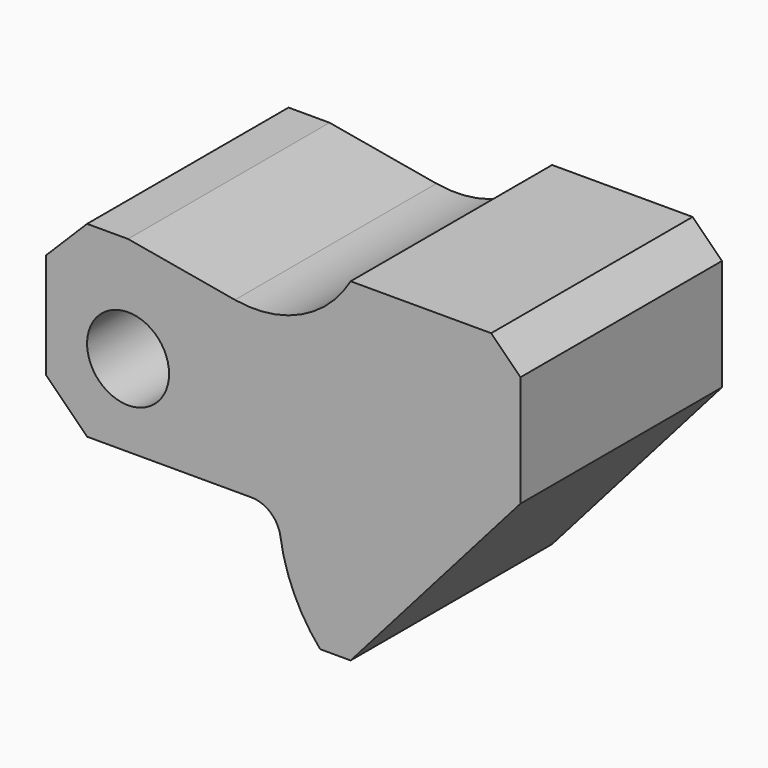
from build123d import *

# Parameters (mm, degrees)
F0_R     = 7
F1_DEPTH = 21.5


with BuildPart() as f1:
    # F0 (on Front) → F1 (new body, symmetric)
    with BuildSketch(Plane.XZ):
        with BuildLine():
            Line((67, 19), (62, 24))
            Line((62, 24), (38, 24))
            ThreePointArc((38, 24), (29.574973, 16.276069), (18.243085, 14.783252))
            Line((18.243085, 14.783252), (0, 18))
            Line((0, 18), (-7, 18))
            Line((-7, 18), (-14, 11))
            Line((-14, 11), (-14, -7))
            Line((-14, -7), (-7, -14))
            Line((-7, -14), (21.066626, -14))
            ThreePointArc((21.066626, -14), (24.331862, -15.213414), (26.012265, -18.264706))
            ThreePointArc((26.012265, -18.264706), (28.349095, -26.115672), (32.788067, -33))
            Line((32.788067, -33), (38, -33))
            Line((38, -33), (67, 0))
            Line((67, 0), (67, 19))
        make_face()
        Circle(F0_R, mode=Mode.SUBTRACT)
    extrude(amount=F1_DEPTH, both=True)


solid = f1.part
